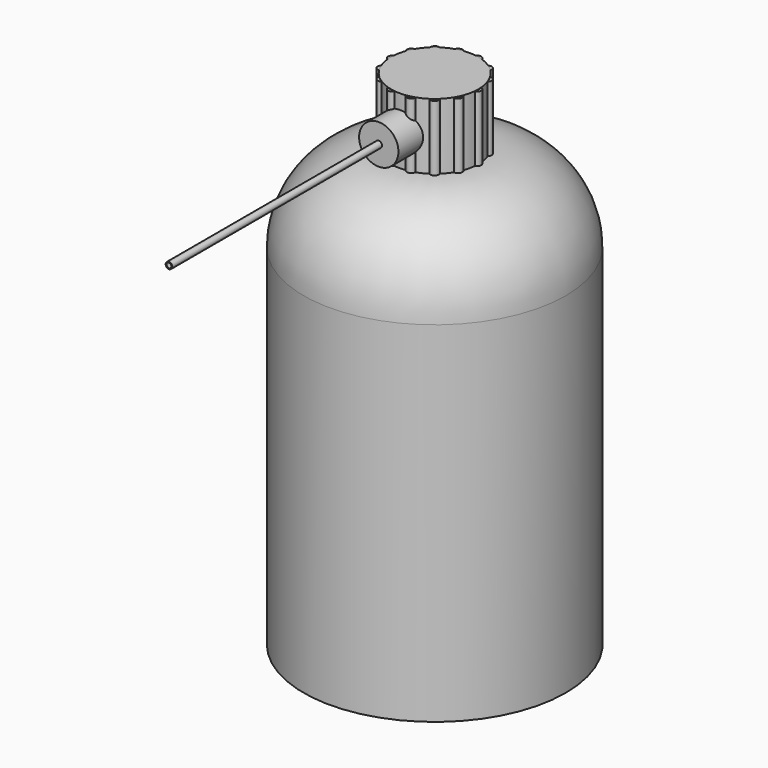
from build123d import *

# Parameters (mm, degrees)
F0_R          = 38.1
F1_DEPTH      = 63.5
F1_DEPTH_BACK = 63.5
F2_R          = 25.4
F3_R          = 12.7
F4_DEPTH      = 19.177
F6_R          = 1.27
F7_DEPTH      = 19.05
F9_COUNT      = 14
F10_R         = 5.715
F11_DEPTH     = 20.32
F12_R         = 0.9525
F13_DEPTH     = 76.2
F14_T         = -0.254


with BuildPart() as f1:
    # F0 (on Top) → F1 (new body, two sides)
    with BuildSketch(Plane.XY) as f1_sk:
        Circle(F0_R)
    extrude(amount=F1_DEPTH)
    extrude(f1_sk.sketch, amount=-F1_DEPTH_BACK)

    # F2
    f2_edges = [f1.edges().sort_by_distance(p)[0] for p in [
        (-38.1, 0, 63.5),
    ]]
    fillet(f2_edges, radius=F2_R)

    # F3 (on face) → F4 (join)
    with BuildSketch(Plane.XY.offset(63.5)):
        Circle(F3_R)
    extrude(amount=F4_DEPTH)


with BuildPart() as f7:
    # F6 (on offset) → F7 (new body)
    with BuildSketch(Plane.XY.offset(63.5)):
        with Locations((12.248987678, 0)):
            Circle(F6_R)
    extrude(amount=F7_DEPTH)


with BuildPart() as f9_1:
    # F9: instance of F7
    add(f7.part.rotate(Axis((0, 0, 69.7119012475), (0, 0, 1)), 1 * 360 / F9_COUNT))


with BuildPart() as f9_2:
    # F9: instance of F7
    add(f7.part.rotate(Axis((0, 0, 69.7119012475), (0, 0, 1)), 2 * 360 / F9_COUNT))


with BuildPart() as f9_3:
    # F9: instance of F7
    add(f7.part.rotate(Axis((0, 0, 69.7119012475), (0, 0, 1)), 3 * 360 / F9_COUNT))


with BuildPart() as f9_4:
    # F9: instance of F7
    add(f7.part.rotate(Axis((0, 0, 69.7119012475), (0, 0, 1)), 4 * 360 / F9_COUNT))


with BuildPart() as f9_5:
    # F9: instance of F7
    add(f7.part.rotate(Axis((0, 0, 69.7119012475), (0, 0, 1)), 5 * 360 / F9_COUNT))


with BuildPart() as f9_6:
    # F9: instance of F7
    add(f7.part.rotate(Axis((0, 0, 69.7119012475), (0, 0, 1)), 6 * 360 / F9_COUNT))


with BuildPart() as f9_7:
    # F9: instance of F7
    add(f7.part.rotate(Axis((0, 0, 69.7119012475), (0, 0, 1)), 7 * 360 / F9_COUNT))


with BuildPart() as f9_8:
    # F9: instance of F7
    add(f7.part.rotate(Axis((0, 0, 69.7119012475), (0, 0, 1)), 8 * 360 / F9_COUNT))


with BuildPart() as f9_9:
    # F9: instance of F7
    add(f7.part.rotate(Axis((0, 0, 69.7119012475), (0, 0, 1)), 9 * 360 / F9_COUNT))


with BuildPart() as f9_10:
    # F9: instance of F7
    add(f7.part.rotate(Axis((0, 0, 69.7119012475), (0, 0, 1)), 10 * 360 / F9_COUNT))


with BuildPart() as f9_11:
    # F9: instance of F7
    add(f7.part.rotate(Axis((0, 0, 69.7119012475), (0, 0, 1)), 11 * 360 / F9_COUNT))


with BuildPart() as f9_12:
    # F9: instance of F7
    add(f7.part.rotate(Axis((0, 0, 69.7119012475), (0, 0, 1)), 12 * 360 / F9_COUNT))


with BuildPart() as f9_13:
    # F9: instance of F7
    add(f7.part.rotate(Axis((0, 0, 69.7119012475), (0, 0, 1)), 13 * 360 / F9_COUNT))


with BuildPart() as f11:
    # F10 (on Front) → F11 (new body)
    with BuildSketch(Plane.XZ):
        with Locations((0, 72.6990152161)):
            Circle(F10_R)
    extrude(amount=F11_DEPTH)


with BuildPart() as f13:
    # F12 (on face) → F13 (new body)
    with BuildSketch(Plane.XZ.offset(20.32)):
        with Locations((0, 72.6990152161)):
            Circle(F12_R)
    extrude(amount=F13_DEPTH)

    # F14
    f14_openings = [f13.faces().sort_by_distance(p)[0] for p in [
        (0, -96.52, 72.699015),
    ]]
    offset(amount=F14_T, openings=f14_openings)


solid = Compound([f1.part, f7.part, f9_1.part, f9_2.part, f9_3.part, f9_4.part, f9_5.part, f9_6.part, f9_7.part, f9_8.part, f9_9.part, f9_10.part, f9_11.part, f9_12.part, f9_13.part, f11.part, f13.part])
